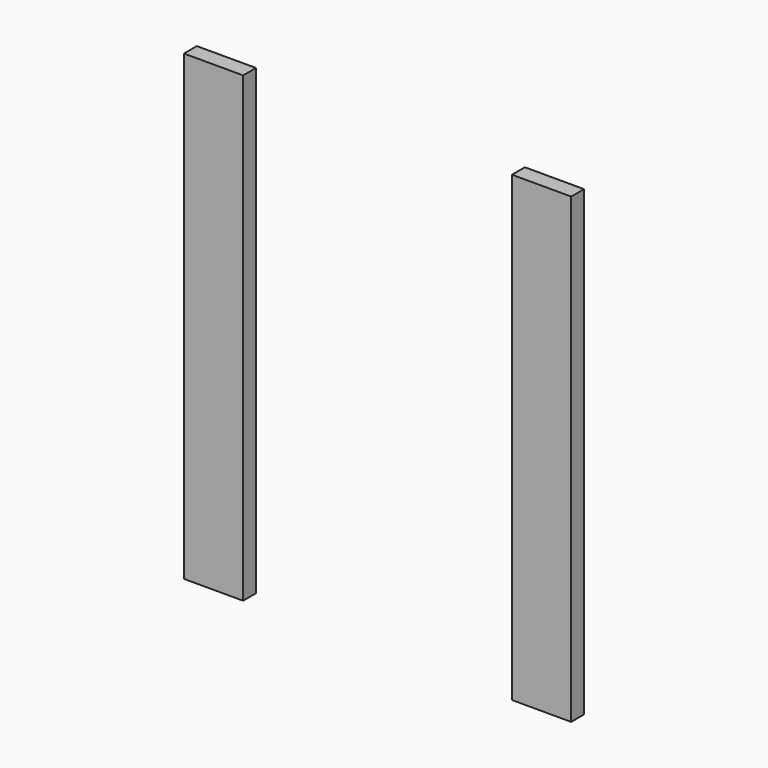
from build123d import *

# Parameters (mm, degrees)
F1_W     = 55
F1_H     = 430
F2_DEPTH = 15


with BuildPart() as f2:
    # F1 (on Front) → F2 (new body)
    with BuildSketch(Plane.XZ):
        with Locations((-152.5, 215)):
            Rectangle(F1_W, F1_H)
    extrude(amount=F2_DEPTH)


with BuildPart() as f2b:
    # F1 (on Front) → F2, piece 2 (new body)
    with BuildSketch(Plane.XZ):
        with Locations((152.5, 215)):
            Rectangle(F1_W, F1_H)
    extrude(amount=F2_DEPTH)


solid = Compound([f2.part, f2b.part])
